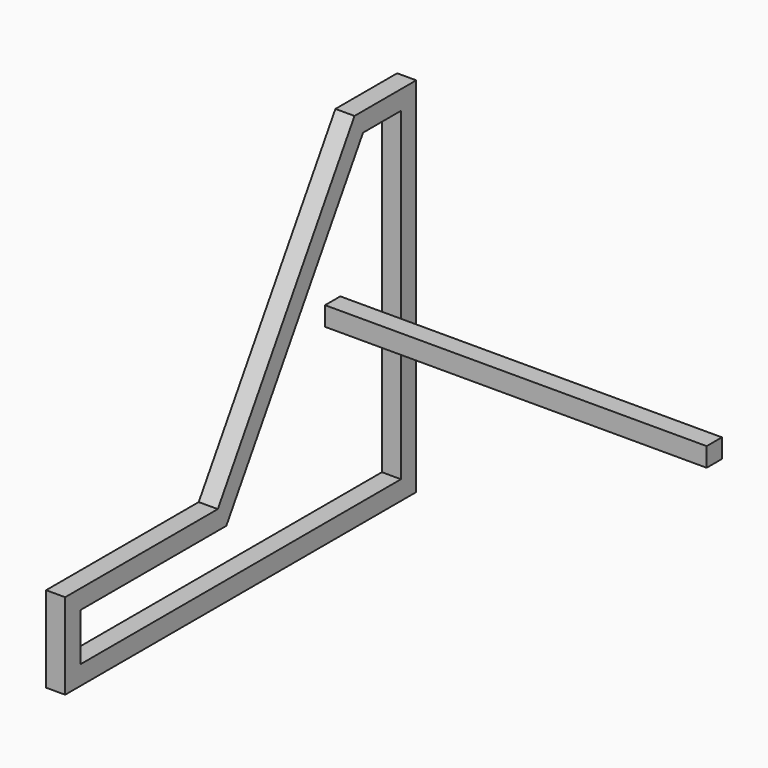
from build123d import *

# Parameters (mm, degrees)
F1_DEPTH = 25.4
F2_W     = 25.4
F2_H     = 25.4
F3_DEPTH = 508


with BuildPart() as f1:
    # F0 (on Right) → F1 (new body)
    with BuildSketch(Plane.YZ):
        Polygon((34.453054, 235.660777), (59.853054, 261.060777), (-42.902501, 261.060777), (-28.735267, 235.660777), align=None)
        Polygon((-28.735267, 235.660777), (-42.902501, 261.060777), (-270.346946, -107.239223), (-256.179712, -132.639223), align=None)
        Polygon((-256.179712, -132.639223), (-270.346946, -107.239223), (-524.346946, -107.239223), (-498.946946, -132.639223), align=None)
        Polygon((-524.346946, -107.239223), (-524.346946, -221.539223), (-498.946946, -196.139223), (-498.946946, -132.639223), align=None)
        Polygon((-524.346946, -221.539223), (59.853054, -221.539223), (34.453054, -196.139223), (-498.946946, -196.139223), align=None)
        Polygon((59.853054, -221.539223), (59.853054, 261.060777), (34.453054, 235.660777), (34.453054, -196.139223), align=None)
    extrude(amount=F1_DEPTH)


with BuildPart() as f3:
    # F2 (on Right) → F3 (new body)
    with BuildSketch(Plane.YZ):
        with Locations((-47.463216, 25.379922)):
            Rectangle(F2_W, F2_H)
    extrude(amount=F3_DEPTH)


solid = Compound([f1.part, f3.part])
